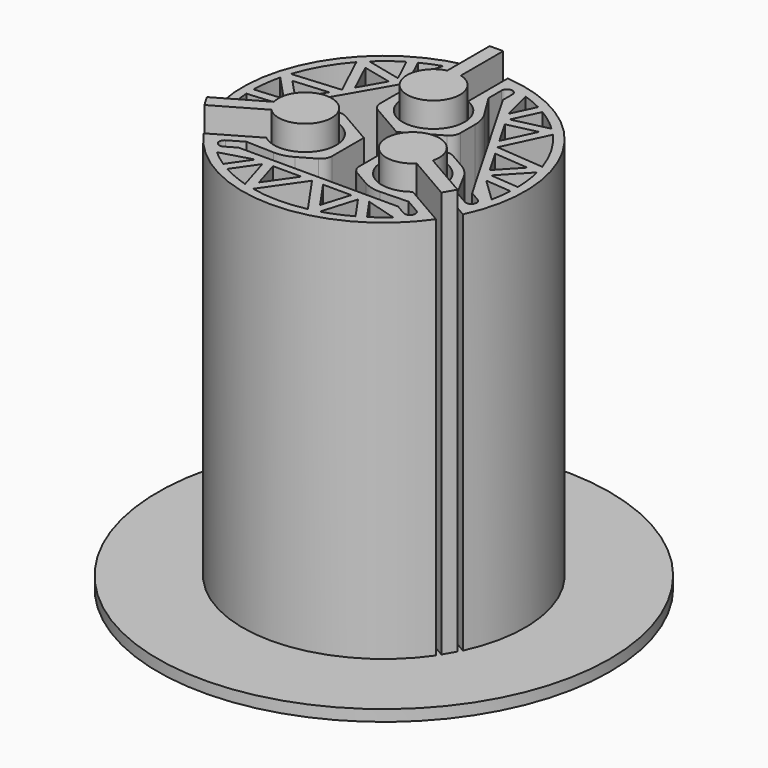
from build123d import *

# Parameters (mm, degrees)
F1_DEPTH = 35
F3_DEPTH = 34.4
F4_R     = 20
F5_DEPTH = 1
F6_DEPTH = 37


with BuildPart() as f1:
    # F0 (on Top) → F1 (new body)
    with BuildSketch(Plane.XY):
        with BuildLine():
            ThreePointArc((1, 8.0609246027), (0, 2.7491869112), (-1, 8.0609246027))
            Line((-1, 8.0609246027), (-1, 12.4599357944))
            ThreePointArc((-1, 12.4599357944), (-10.8253175473, 6.25), (-11.2906209275, -5.3639424934))
            Line((-11.2906209275, -5.3639424934), (-7.480965484, -3.1644368976))
            ThreePointArc((-7.480965484, -3.1644368976), (-2.3808657049, -1.3745934556), (-6.480965484, -4.8964877052))
            Line((-6.480965484, -4.8964877052), (-10.2906209275, -7.095993301))
            ThreePointArc((-10.2906209275, -7.095993301), (0, -12.5), (10.2906209275, -7.095993301))
            Line((10.2906209275, -7.095993301), (6.480965484, -4.8964877052))
            ThreePointArc((6.480965484, -4.8964877052), (2.3808657049, -1.3745934556), (7.480965484, -3.1644368976))
            Line((7.480965484, -3.1644368976), (11.2906209275, -5.3639424934))
            ThreePointArc((11.2906209275, -5.3639424934), (10.8253175473, 6.25), (1, 12.4599357944))
            Line((1, 12.4599357944), (1, 8.0609246027))
        make_face()
        with BuildLine():
            Line((-3.05, 3.160918321), (0, 1.4))
            Line((0, 1.4), (3.05, 3.160918321))
            ThreePointArc((3.05, 3.160918321), (3.4160254038, 3.5269437248), (3.55, 4.0269437248))
            Line((3.55, 4.0269437248), (3.55, 5.6561970994))
            ThreePointArc((3.55, 5.6561970994), (3.4347555806, 6.4797171295), (3.0978765067, 7.2399664344))
            Line((3.0978765067, 7.2399664344), (1.8, 9.327915094))
            Line((1.8, 9.327915094), (1.8, 10.7877245052))
            ThreePointArc((1.8, 10.7877245052), (2.275, 11.2627245052), (2.75, 10.7877245052))
            Line((2.75, 10.7877245052), (2.75, 9.7350642544))
            Line((2.75, 9.7350642544), (9.3479439501, -1.6929098927))
            Line((9.3479439501, -1.6929098927), (9.8058129518, -2.4859622668))
            Line((9.8058129518, -2.4859622668), (10.7174434705, -3.0122923922))
            ThreePointArc((10.7174434705, -3.0122923922), (10.8913055373, -3.661154459), (10.2424434705, -3.8350165258))
            Line((10.2424434705, -3.8350165258), (8.9782114357, -3.1051118202))
            Line((8.9782114357, -3.1051118202), (7.8189331081, -0.9371434646))
            ThreePointArc((7.8189331081, -0.9371434646), (7.3289774338, -0.2652729761), (6.6734103769, 0.2462916337))
            Line((6.6734103769, 0.2462916337), (5.2624355653, 1.060918321))
            ThreePointArc((5.2624355653, 1.060918321), (4.7624355653, 1.1948929172), (4.2624355653, 1.060918321))
            Line((4.2624355653, 1.060918321), (1.2124355653, -0.7))
            Line((1.2124355653, -0.7), (1.2124355653, -4.2218366421))
            ThreePointArc((1.2124355653, -4.2218366421), (1.3464101615, -4.7218366421), (1.7124355653, -5.0878620458))
            Line((1.7124355653, -5.0878620458), (3.1234103769, -5.9024887331))
            ThreePointArc((3.1234103769, -5.9024887331), (3.8942218532, -6.2144441534), (4.7210566014, -6.3028229698))
            Line((4.7210566014, -6.3028229698), (7.1782114357, -6.2228032738))
            Line((7.1782114357, -6.2228032738), (8.4424434705, -6.9527079794))
            ThreePointArc((8.4424434705, -6.9527079794), (8.6163055373, -7.6015700462), (7.9674434705, -7.775432113))
            Line((7.9674434705, -7.775432113), (7.0558129518, -7.2491019876))
            Line((7.0558129518, -7.2491019876), (-6.1400749485, -7.2491019876))
            Line((-6.1400749485, -7.2491019876), (-7.0558129518, -7.2491019876))
            Line((-7.0558129518, -7.2491019876), (-7.9674434705, -7.775432113))
            ThreePointArc((-7.9674434705, -7.775432113), (-8.6163055373, -7.6015700462), (-8.4424434705, -6.9527079794))
            Line((-8.4424434705, -6.9527079794), (-7.1782114357, -6.2228032738))
            Line((-7.1782114357, -6.2228032738), (-4.7210566014, -6.3028229698))
            ThreePointArc((-4.7210566014, -6.3028229698), (-3.8942218532, -6.2144441534), (-3.1234103769, -5.9024887331))
            Line((-3.1234103769, -5.9024887331), (-1.7124355653, -5.0878620458))
            ThreePointArc((-1.7124355653, -5.0878620458), (-1.3464101615, -4.7218366421), (-1.2124355653, -4.2218366421))
            Line((-1.2124355653, -4.2218366421), (-1.2124355653, -0.7))
            Line((-1.2124355653, -0.7), (-4.2624355653, 1.060918321))
            ThreePointArc((-4.2624355653, 1.060918321), (-4.7624355653, 1.1948929172), (-5.2624355653, 1.060918321))
            Line((-5.2624355653, 1.060918321), (-6.6734103769, 0.2462916337))
            ThreePointArc((-6.6734103769, 0.2462916337), (-7.3289774338, -0.2652729761), (-7.8189331081, -0.9371434646))
            Line((-7.8189331081, -0.9371434646), (-8.9782114357, -3.1051118202))
            Line((-8.9782114357, -3.1051118202), (-10.2424434705, -3.8350165258))
            ThreePointArc((-10.2424434705, -3.8350165258), (-10.8913055373, -3.661154459), (-10.7174434705, -3.0122923922))
            Line((-10.7174434705, -3.0122923922), (-9.8058129518, -2.4859622668))
            Line((-9.8058129518, -2.4859622668), (-9.3479439501, -1.6929098927))
            Line((-9.3479439501, -1.6929098927), (-3.2078690016, 8.9420118803))
            Line((-3.2078690016, 8.9420118803), (-2.75, 9.7350642544))
            Line((-2.75, 9.7350642544), (-2.75, 10.7877245052))
            ThreePointArc((-2.75, 10.7877245052), (-2.275, 11.2627245052), (-1.8, 10.7877245052))
            Line((-1.8, 10.7877245052), (-1.8, 9.327915094))
            Line((-1.8, 9.327915094), (-3.0978765067, 7.2399664344))
            ThreePointArc((-3.0978765067, 7.2399664344), (-3.4347555806, 6.4797171295), (-3.55, 5.6561970994))
            Line((-3.55, 5.6561970994), (-3.55, 4.0269437248))
            ThreePointArc((-3.55, 4.0269437248), (-3.4160254038, 3.5269437248), (-3.05, 3.160918321))
        make_face(mode=Mode.SUBTRACT)
    extrude(amount=F1_DEPTH)

    # F2 (on face) → F3 (cut)
    with BuildSketch(Plane.XY.offset(35)):
        with BuildLine():
            Line((-5.0538029895, -7.9321639569), (-7.7961264777, -8.7241281481))
            ThreePointArc((-7.7961264777, -8.7241281481), (-7.1013954523, -9.2983967774), (-6.3645179818, -9.8174798629))
            Line((-6.3645179818, -9.8174798629), (-5.0538029895, -7.9321639569))
        make_face()
        with BuildLine():
            Line((-4.2349134491, -8.1557589713), (-5.677195961, -10.2303199373))
            ThreePointArc((-5.677195961, -10.2303199373), (-4.518506263, -10.7922704354), (-3.3050772438, -11.2234782671))
            Line((-3.3050772438, -11.2234782671), (-4.2349134491, -8.1557589713))
        make_face()
        Polygon((-0.9620493651, -7.9321639569), (-3.4667445506, -7.9321639569), (-2.7062902003, -10.4410579649), align=None)
        with BuildLine():
            Line((0, -7.9498396858), (-2.4298492707, -11.4449042164))
            ThreePointArc((-2.4298492707, -11.4449042164), (0, -11.7), (2.4298492707, -11.4449042164))
            Line((2.4298492707, -11.4449042164), (0, -7.9498396858))
        make_face()
        Polygon((0.9620493651, -7.9321639569), (2.7062902003, -10.4410579649), (3.4667445506, -7.9321639569), align=None)
        with BuildLine():
            ThreePointArc((3.3050772438, -11.2234782671), (4.518506263, -10.7922704354), (5.677195961, -10.2303199373))
            Line((5.677195961, -10.2303199373), (4.2349134491, -8.1557589713))
            Line((4.2349134491, -8.1557589713), (3.3050772438, -11.2234782671))
        make_face()
        with BuildLine():
            Line((5.0538029895, -7.9321639569), (6.3645179818, -9.8174798629))
            ThreePointArc((6.3645179818, -9.8174798629), (7.1013954523, -9.2983967774), (7.7961264777, -8.7241281481))
            Line((7.7961264777, -8.7241281481), (5.0538029895, -7.9321639569))
        make_face()
        with BuildLine():
            Line((9.3963569884, -0.4106397962), (11.4533798409, -2.3895795068))
            ThreePointArc((11.4533798409, -2.3895795068), (11.6033455498, -1.5007904754), (11.6844459534, -0.6030943236))
            Line((11.6844459534, -0.6030943236), (9.3963569884, -0.4106397962))
        make_face()
        with BuildLine():
            Line((9.1805511808, 0.4103368558), (11.6983149351, 0.1985640441))
            ThreePointArc((11.6983149351, 0.1985640441), (11.6056334931, 1.4829940068), (11.37235592, 2.749458279))
            Line((11.37235592, 2.749458279), (9.1805511808, 0.4103368558))
        make_face()
        Polygon((7.3504801762, 3.1329227886), (8.6028277689, 0.9637931292), (10.3953665402, 2.876812919), align=None)
        Polygon((-10.3953665402, 2.876812919), (-8.6028277689, 0.9637931292), (-7.3504801762, 3.1329227886), align=None)
        with BuildLine():
            ThreePointArc((-11.37235592, 2.749458279), (-11.6056334931, 1.4829940068), (-11.6983149351, 0.1985640441))
            Line((-11.6983149351, 0.1985640441), (-9.1805511808, 0.4103368558))
            Line((-9.1805511808, 0.4103368558), (-11.37235592, 2.749458279))
        make_face()
        with BuildLine():
            ThreePointArc((-11.6844459534, -0.6030943236), (-11.6033455498, -1.5007904754), (-11.4533798409, -2.3895795068))
            Line((-11.4533798409, -2.3895795068), (-9.3963569884, -0.4106397962))
            Line((-9.3963569884, -0.4106397962), (-11.6844459534, -0.6030943236))
        make_face()
        with BuildLine():
            ThreePointArc((-8.6966531599, 7.826763304), (-10.1324972243, 5.85), (-11.1265024306, 3.6181409123))
            Line((-11.1265024306, 3.6181409123), (-6.8847631239, 3.9749198429))
            Line((-6.8847631239, 3.9749198429), (-8.6966531599, 7.826763304))
        make_face()
        Polygon((-7.6890763399, 7.5642450459), (-6.3884308111, 4.7992411683), (-5.1360832183, 6.9683708277), align=None)
        with BuildLine():
            Line((-4.9456377317, 7.7454221154), (-6.021118974, 10.0317558932))
            ThreePointArc((-6.021118974, 10.0317558932), (-7.0871272301, 9.3092764286), (-8.0672786763, 8.4740199881))
            Line((-8.0672786763, 8.4740199881), (-4.9456377317, 7.7454221154))
        make_face()
        with BuildLine():
            ThreePointArc((-3.6572533632, 11.1137076548), (-4.5019500975, 10.7991872527), (-5.3199279715, 10.4205741866))
            Line((-5.3199279715, 10.4205741866), (-4.3425539989, 8.3428037531))
            Line((-4.3425539989, 8.3428037531), (-3.6572533632, 11.1137076548))
        make_face()
        with BuildLine():
            ThreePointArc((5.3199279715, 10.4205741866), (4.5019500975, 10.7991872527), (3.6572533632, 11.1137076548))
            Line((3.6572533632, 11.1137076548), (4.3425539989, 8.3428037531))
            Line((4.3425539989, 8.3428037531), (5.3199279715, 10.4205741866))
        make_face()
        with BuildLine():
            ThreePointArc((8.0672786763, 8.4740199881), (7.0871272301, 9.3092764286), (6.021118974, 10.0317558932))
            Line((6.021118974, 10.0317558932), (4.9456377317, 7.7454221154))
            Line((4.9456377317, 7.7454221154), (8.0672786763, 8.4740199881))
        make_face()
        Polygon((7.6890763399, 7.5642450459), (5.1360832183, 6.9683708277), (6.3884308111, 4.7992411683), align=None)
        with BuildLine():
            Line((6.8847631239, 3.9749198429), (11.1265024306, 3.6181409123))
            ThreePointArc((11.1265024306, 3.6181409123), (10.1324972243, 5.85), (8.6966531599, 7.826763304))
            Line((8.6966531599, 7.826763304), (6.8847631239, 3.9749198429))
        make_face()
    extrude(amount=-F3_DEPTH, mode=Mode.SUBTRACT)


with BuildPart() as f5:
    # F4 (on Top) → F5 (new body)
    with BuildSketch(Plane.XY):
        Circle(F4_R)
        with BuildLine():
            Line((-11.0906209275, -5.7103526549), (-7.0301436229, -3.3660349901))
            ThreePointArc((-7.0301436229, -3.3660349901), (-2.7272758664, -1.5745934556), (-6.4301436229, -4.4052654746))
            Line((-6.4301436229, -4.4052654746), (-10.4906209275, -6.7495831395))
            Line((-10.4906209275, -6.7495831395), (-11.0906209275, -5.7103526549))
        make_face(mode=Mode.SUBTRACT)
        with BuildLine():
            Line((10.4906209275, -6.7495831395), (6.4301436229, -4.4052654746))
            ThreePointArc((6.4301436229, -4.4052654746), (2.7272758664, -1.5745934556), (7.0301436229, -3.3660349901))
            Line((7.0301436229, -3.3660349901), (11.0906209275, -5.7103526549))
            Line((11.0906209275, -5.7103526549), (10.4906209275, -6.7495831395))
        make_face(mode=Mode.SUBTRACT)
        with BuildLine():
            Line((0.6, 12.4599357944), (0.6, 7.7713004647))
            ThreePointArc((0.6, 7.7713004647), (0, 3.1491869112), (-0.6, 7.7713004647))
            Line((-0.6, 7.7713004647), (-0.6, 12.4599357944))
            Line((-0.6, 12.4599357944), (0.6, 12.4599357944))
        make_face(mode=Mode.SUBTRACT)
    extrude(amount=F5_DEPTH)

    # F4 (on Top) → F6 (join)
    with BuildSketch(Plane.XY):
        with BuildLine():
            ThreePointArc((-6.4301436229, -4.4052654746), (-2.7272758664, -1.5745934556), (-7.0301436229, -3.3660349901))
            Line((-7.0301436229, -3.3660349901), (-11.0906209275, -5.7103526549))
            Line((-11.0906209275, -5.7103526549), (-10.4906209275, -6.7495831395))
            Line((-10.4906209275, -6.7495831395), (-6.4301436229, -4.4052654746))
        make_face()
        with BuildLine():
            ThreePointArc((7.0301436229, -3.3660349901), (2.7272758664, -1.5745934556), (6.4301436229, -4.4052654746))
            Line((6.4301436229, -4.4052654746), (10.4906209275, -6.7495831395))
            Line((10.4906209275, -6.7495831395), (11.0906209275, -5.7103526549))
            Line((11.0906209275, -5.7103526549), (7.0301436229, -3.3660349901))
        make_face()
        with BuildLine():
            ThreePointArc((-0.6, 7.7713004647), (0, 3.1491869112), (0.6, 7.7713004647))
            Line((0.6, 7.7713004647), (0.6, 12.4599357944))
            Line((0.6, 12.4599357944), (-0.6, 12.4599357944))
            Line((-0.6, 12.4599357944), (-0.6, 7.7713004647))
        make_face()
    extrude(amount=F6_DEPTH)


solid = Compound([f1.part, f5.part])
